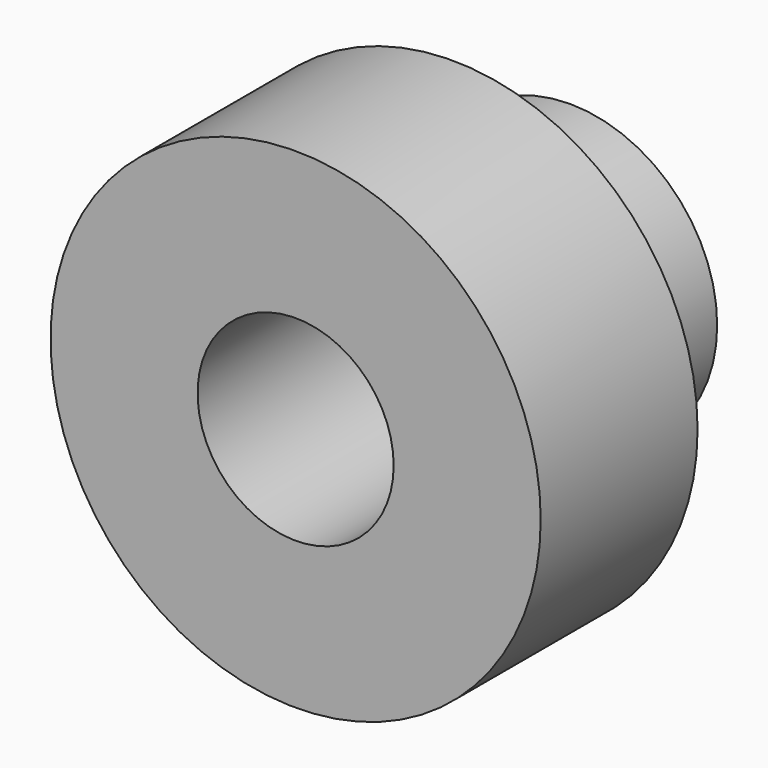
from build123d import *

# Parameters (mm, degrees)
F0_R      = 31.75
F3_DEPTH  = 25.4
F1_R      = 19.05
F4_DEPTH  = 19.05
F2_R      = 12.7
F5_DEPTH  = 44.45
F5_FACE_R = 12.7
F6_DEPTH  = 25.4


with BuildPart() as f3:
    # F0 (on Front) → F3 (new body)
    with BuildSketch(Plane.XZ):
        Circle(F0_R)
    extrude(amount=F3_DEPTH)

    # F1 (on face) → F4 (join)
    with BuildSketch(Plane.XZ):
        Circle(F1_R)
    extrude(amount=-F4_DEPTH)

    # F2 (on face) → F5 (cut)
    with BuildSketch(Plane.XZ):
        Circle(F2_R)
    extrude(amount=-F5_DEPTH, mode=Mode.SUBTRACT)

    # F5_face (on face) → F6 (cut)
    with BuildSketch(Plane(origin=(0, 0, 0), x_dir=(1, 0, 0), z_dir=(0, 1, 0))):
        Circle(F5_FACE_R)
    extrude(amount=-F6_DEPTH, mode=Mode.SUBTRACT)


solid = f3.part
